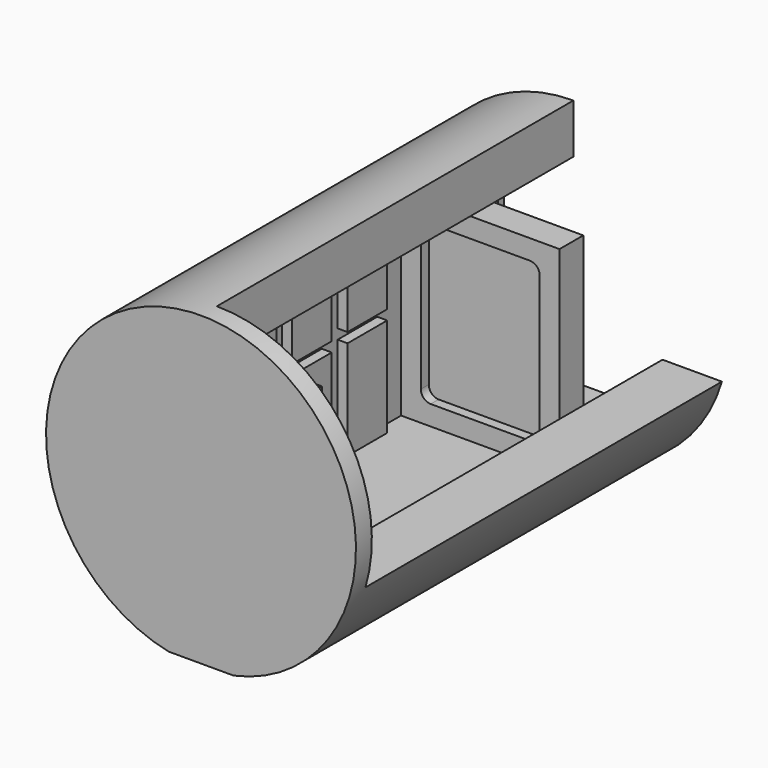
from build123d import *

# Parameters (mm, degrees)
F1_DEPTH  = 47
F3_DEPTH  = 45
F5_DEPTH  = 2
F7_DEPTH  = 1
F8_R      = 1
F9_W      = 5
F9_H      = 10
F9_H_2    = 4
F9_H_3    = 2
F10_DEPTH = 1
F13_DEPTH = 3
F15_DEPTH = 1
F17_DEPTH = 1


with BuildPart() as f1:
    # F0 (on Front) → F1 (new body)
    with BuildSketch(Plane.XZ):
        with BuildLine():
            Line((-3.2912763482, 0), (3.2912763482, 0))
            ThreePointArc((3.2912763482, 0), (0, 30.95), (-3.2912763482, 0))
        make_face()
    extrude(amount=F1_DEPTH)

    # F2 (on face) → F3 (cut)
    with BuildSketch(Plane(origin=(0, 0, 0), x_dir=(-1, 0, 0), z_dir=(0, 1, 0))):
        with BuildLine():
            Line((0, 25.95), (0, 30.95))
            ThreePointArc((0, 30.95), (-12.5454312905, 24.6559956037), (-15, 10.8365372187))
            Line((-15, 10.8365372187), (-9, 10.8365372187))
            Line((-9, 10.8365372187), (-9, 5.95))
            Line((-9, 5.95), (7, 5.95))
            Line((7, 5.95), (7, 25.95))
            Line((7, 25.95), (0, 25.95))
        make_face()
    extrude(amount=-F3_DEPTH, mode=Mode.SUBTRACT)

    # F4 (on face) → F5 (join)
    with BuildSketch(Plane(origin=(0, -45, 0), x_dir=(-1, 0, 0), z_dir=(0, 1, 0))):
        Polygon((-9, 25.95), (-9, 10.8365372187), (-9, 5.95), (7, 5.95), (7, 25.95), (0, 25.95), align=None)
    extrude(amount=F5_DEPTH)

    # F6 (on face) → F7 (cut)
    with BuildSketch(Plane(origin=(0, -43, 0), x_dir=(-1, 0, 0), z_dir=(0, 1, 0))):
        Polygon((0, 23.95), (-7, 23.95), (-7, 7.95), (5, 7.95), (5, 23.95), align=None)
    extrude(amount=-F7_DEPTH, mode=Mode.SUBTRACT)

    # F8
    f8_edges = [f1.edges().sort_by_distance(p)[0] for p in [
        (7, -43.5, 23.95),
        (-5, -43.5, 23.95),
        (7, -43.5, 7.95),
        (-5, -43.5, 7.95),
    ]]
    fillet(f8_edges, radius=F8_R)

    # F9 (on face) → F10 (join)
    with BuildSketch(Plane.YZ.offset(-7)):
        with Locations((-39.5, 10.95)):
            Rectangle(F9_W, F9_H)
        with Locations((-39.5, 18.95)):
            Rectangle(F9_W, F9_H_2)
        with Locations((-39.5, 22.95)):
            Rectangle(F9_W, F9_H_3)
        with Locations((-32.5, 22.95)):
            Rectangle(F9_W, F9_H_3)
        with Locations((-32.5, 18.95)):
            Rectangle(F9_W, F9_H_2)
        with Locations((-32.5, 10.95)):
            Rectangle(F9_W, F9_H)
        with Locations((-25.5, 22.95)):
            Rectangle(F9_W, F9_H_3)
        with Locations((-25.5, 18.95)):
            Rectangle(F9_W, F9_H_2)
        with Locations((-25.5, 10.95)):
            Rectangle(F9_W, F9_H)
        with Locations((-18.5, 22.95)):
            Rectangle(F9_W, F9_H_3)
        with Locations((-18.5, 18.95)):
            Rectangle(F9_W, F9_H_2)
        with Locations((-18.5, 10.95)):
            Rectangle(F9_W, F9_H)
        with Locations((-4.5, 22.95)):
            Rectangle(F9_W, F9_H_3)
        with Locations((-4.5, 18.95)):
            Rectangle(F9_W, F9_H_2)
        with Locations((-4.5, 10.95)):
            Rectangle(F9_W, F9_H)
    extrude(amount=F10_DEPTH)

    # F12 (on offset) → F13 (join)
    with BuildSketch(Plane(origin=(0, -13, 0), x_dir=(-1, 0, 0), z_dir=(0, 1, 0))):
        Polygon((7, 25.95), (0, 25.95), (-9, 25.95), (-9, 10.8365372187), (-9, 5.95), (7, 5.95), align=None)
    extrude(amount=F13_DEPTH)

    # F14 (on face) → F15 (cut)
    with BuildSketch(Plane(origin=(0, -10, 0), x_dir=(-1, 0, 0), z_dir=(0, 1, 0))):
        with BuildLine():
            ThreePointArc((4, 7.95), (4.7071067812, 8.2428932188), (5, 8.95))
            Line((5, 8.95), (5, 22.95))
            ThreePointArc((5, 22.95), (4.7071067812, 23.6571067812), (4, 23.95))
            Line((4, 23.95), (-6, 23.95))
            ThreePointArc((-6, 23.95), (-6.7071067812, 23.6571067812), (-7, 22.95))
            Line((-7, 22.95), (-7, 8.95))
            ThreePointArc((-7, 8.95), (-6.7071067812, 8.2428932188), (-6, 7.95))
            Line((-6, 7.95), (4, 7.95))
        make_face()
    extrude(amount=-F15_DEPTH, mode=Mode.SUBTRACT)

    # F16 (on face) → F17 (cut)
    with BuildSketch(Plane.XZ.offset(13)):
        with BuildLine():
            Line((-4, 7.95), (6, 7.95))
            ThreePointArc((6, 7.95), (6.7071067812, 8.2428932188), (7, 8.95))
            Line((7, 8.95), (7, 22.95))
            ThreePointArc((7, 22.95), (6.7071067812, 23.6571067812), (6, 23.95))
            Line((6, 23.95), (-4, 23.95))
            ThreePointArc((-4, 23.95), (-4.7071067812, 23.6571067812), (-5, 22.95))
            Line((-5, 22.95), (-5, 8.95))
            ThreePointArc((-5, 8.95), (-4.7071067812, 8.2428932188), (-4, 7.95))
        make_face()
    extrude(amount=-F17_DEPTH, mode=Mode.SUBTRACT)


solid = f1.part
